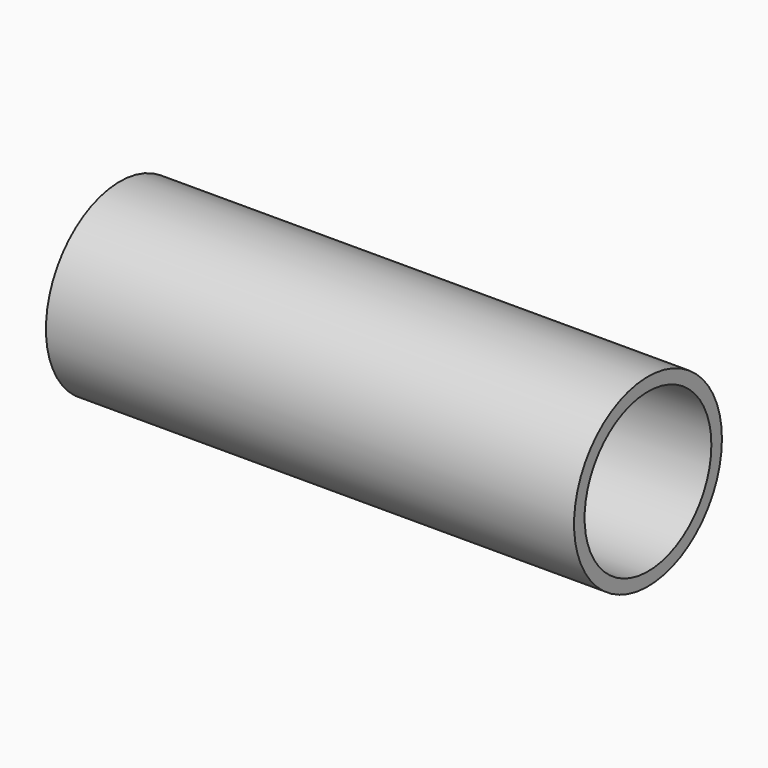
from build123d import *

# Parameters (mm, degrees)
F0_R          = 44.45
F1_DEPTH      = 127
F1_DEPTH_BACK = 127
F2_T          = -6.35


with BuildPart() as f1:
    # F0 (on Right) → F1 (new body, two sides)
    with BuildSketch(Plane.YZ) as f1_sk:
        Circle(F0_R)
    extrude(amount=F1_DEPTH)
    extrude(f1_sk.sketch, amount=-F1_DEPTH_BACK)

    # F2
    f2_openings = [f1.faces().sort_by_distance(p)[0] for p in [
        (127, 0, 0),
    ]]
    offset(amount=F2_T, openings=f2_openings)


solid = f1.part
